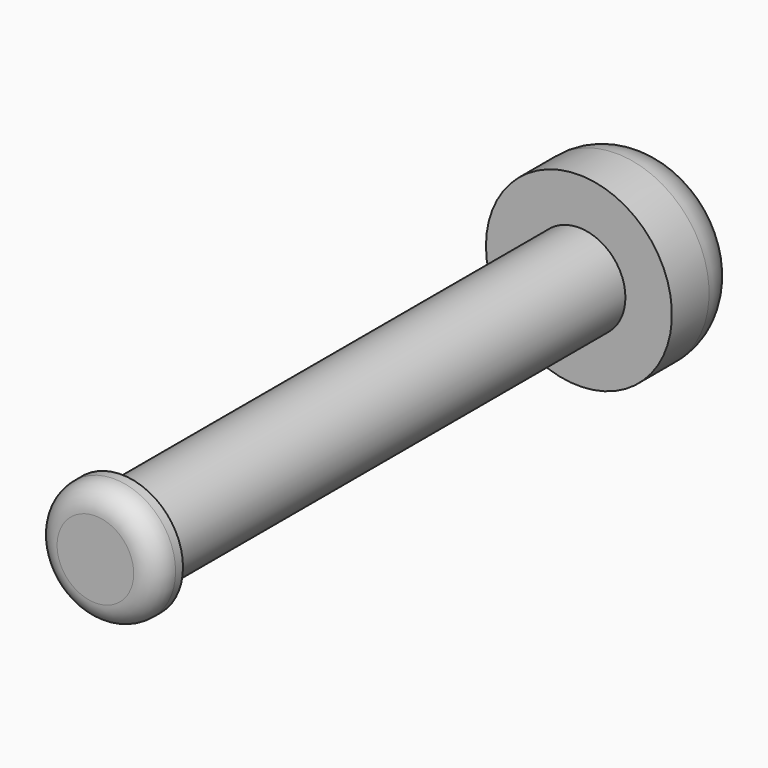
from build123d import *

# Parameters (mm, degrees)
F0_R     = 10
F1_DEPTH = 130
F2_R     = 20
F3_DEPTH = 20
F4_R     = 10
F5_R     = 13.239719
F6_DEPTH = 7
F7_R     = 5


with BuildPart() as f1:
    # F0 (on Front) → F1 (new body)
    with BuildSketch(Plane.XZ):
        with Locations((-0.790664, 2.688253)):
            Circle(F0_R)
    extrude(amount=F1_DEPTH)

    # F2 (on face) → F3 (join)
    with BuildSketch(Plane(origin=(0, 0, 0), x_dir=(-1, 0, 0), z_dir=(0, 1, 0))):
        with Locations((0.790664, 2.688253)):
            Circle(F2_R)
    extrude(amount=F3_DEPTH)

    # F4
    f4_edges = [f1.edges().sort_by_distance(p)[0] for p in [
        (19.209336, 20, 2.688253),
    ]]
    fillet(f4_edges, radius=F4_R)

    # F5 (on face) → F6 (join)
    with BuildSketch(Plane.XZ.offset(130)):
        with Locations((-0.790664, 2.688253)):
            Circle(F5_R)
    extrude(amount=-F6_DEPTH)

    # F7
    f7_edges = [f1.edges().sort_by_distance(p)[0] for p in [
        (-14.030383, -130, 2.688253),
    ]]
    fillet(f7_edges, radius=F7_R)


solid = f1.part
